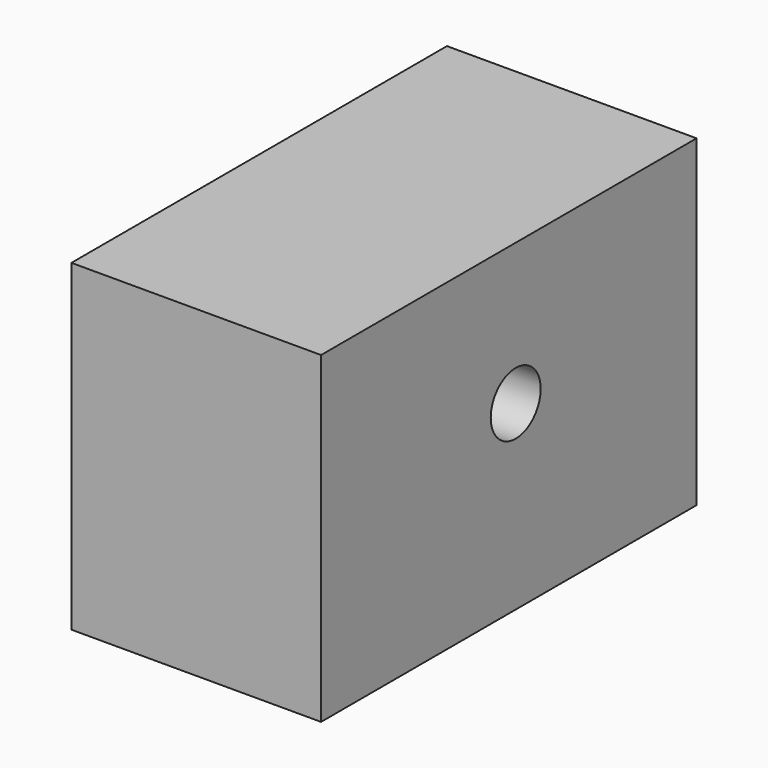
from build123d import *

# Parameters (mm, degrees)
F0_W     = 47.759749
F0_H     = 32.863535
F1_DEPTH = 25.4
F3_D     = 6.35


with BuildPart() as f1:
    # F0 (on Right) → F1 (new body)
    with BuildSketch(Plane.YZ):
        with Locations((23.879874, 16.431767)):
            Rectangle(F0_W, F0_H)
    extrude(amount=F1_DEPTH)

    # F3 (through all)
    with Locations(Plane.YZ.offset(25.4)):
        with Locations((24.755191, 18.47573)):
            Hole(F3_D / 2)


solid = f1.part
